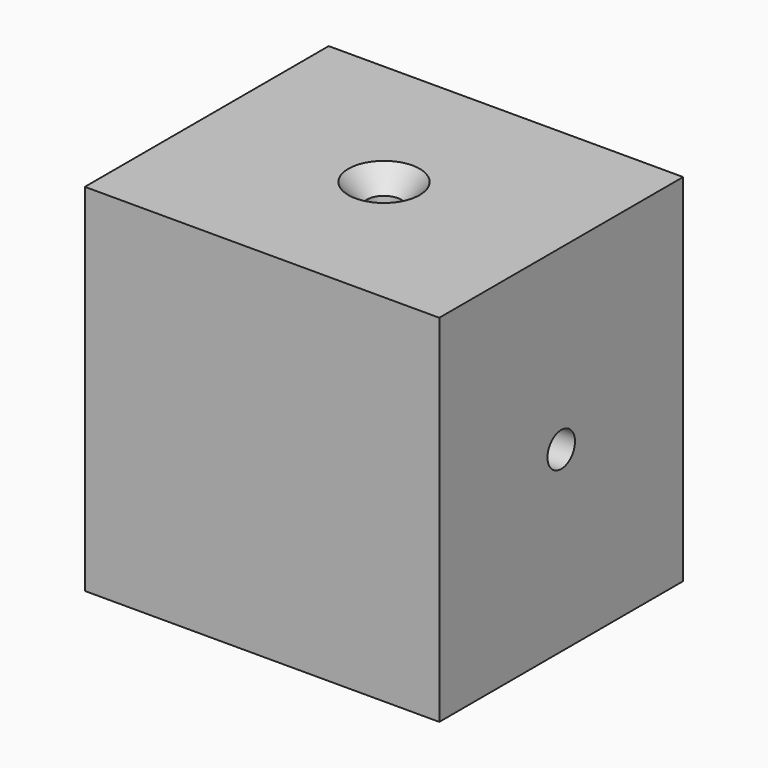
from build123d import *

# Parameters (mm, degrees)
F0_W                 = 118.4436753392
F0_H                 = 118.8980340958
F1_DEPTH             = 101.854
F4_D                 = 11.50874
F4_CSINK_D           = 23.8252
F4_CSINK_ANGLE       = 82
F4_ON_F2_D           = 11.50874
F4_ON_F2_CSINK_D     = 23.8252
F4_ON_F2_CSINK_ANGLE = 82


with BuildPart() as f1:
    # F0 (on Front) → F1 (new body)
    with BuildSketch(Plane.XZ):
        Rectangle(F0_W, F0_H)
    extrude(amount=F1_DEPTH)

    # F4 (through all)
    with Locations(Plane(origin=(-59.2218376696, 0, 0), x_dir=(0, -1, 0), z_dir=(-1, 0, 0))):
        with Locations((50.927, 0)):
            CounterSinkHole(F4_D / 2, F4_CSINK_D / 2, counter_sink_angle=F4_CSINK_ANGLE)

    # F4 on F2 (through all)
    with Locations(Plane.XY.offset(59.4490170479)):
        with Locations((0, -50.927)):
            CounterSinkHole(F4_ON_F2_D / 2, F4_ON_F2_CSINK_D / 2, counter_sink_angle=F4_ON_F2_CSINK_ANGLE)


solid = f1.part
